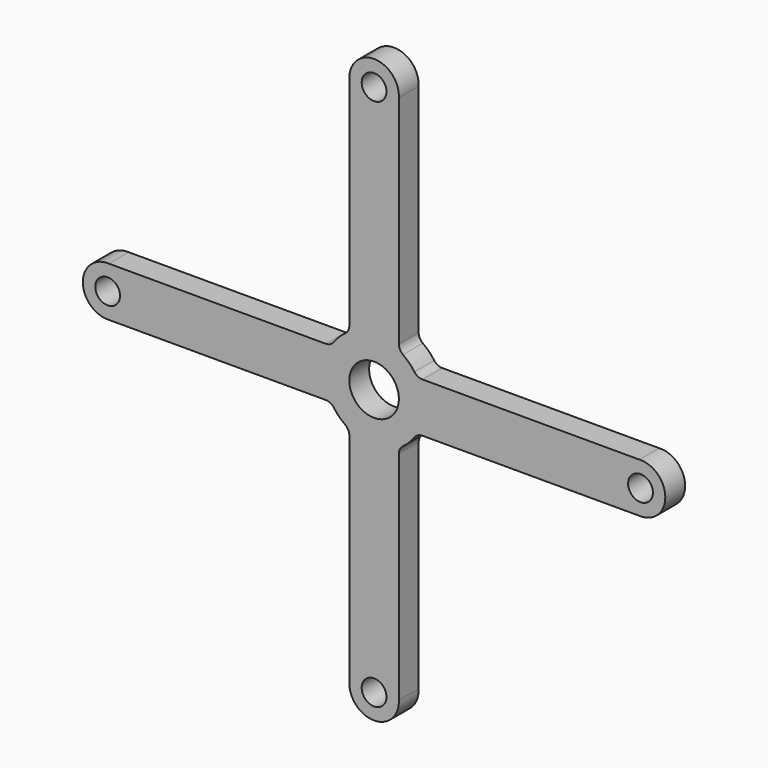
from build123d import *

# Parameters (mm, degrees)
F0_R     = 3.175
F0_R_2   = 6.35
F1_DEPTH = 6.35


with BuildPart() as f1:
    # F0 (on Front) → F1 (new body)
    with BuildSketch(Plane.XZ):
        with BuildLine():
            Line((6.343128, 12.383362), (6.343128, 67.967151))
            ThreePointArc((6.343128, 67.967151), (0, 74.6125), (-6.343128, 67.967151))
            Line((-6.343128, 67.967151), (-6.343128, 12.383362))
            ThreePointArc((-6.343128, 12.383362), (-6.623468, 11.223388), (-7.402606, 10.319468))
            ThreePointArc((-7.402606, 10.319468), (-8.980256, 8.980256), (-10.319468, 7.402606))
            ThreePointArc((-10.319468, 7.402606), (-11.223388, 6.623468), (-12.383362, 6.343128))
            Line((-12.383362, 6.343128), (-67.967151, 6.343128))
            ThreePointArc((-67.967151, 6.343128), (-74.6125, 0), (-67.967151, -6.343128))
            Line((-67.967151, -6.343128), (-12.383362, -6.343128))
            ThreePointArc((-12.383362, -6.343128), (-11.223388, -6.623468), (-10.319468, -7.402606))
            ThreePointArc((-10.319468, -7.402606), (-8.980256, -8.980256), (-7.402606, -10.319468))
            ThreePointArc((-7.402606, -10.319468), (-6.623468, -11.223388), (-6.343128, -12.383362))
            Line((-6.343128, -12.383362), (-6.343128, -67.967151))
            ThreePointArc((-6.343128, -67.967151), (0, -74.6125), (6.343128, -67.967151))
            Line((6.343128, -67.967151), (6.343128, -12.383362))
            ThreePointArc((6.343128, -12.383362), (6.623468, -11.223388), (7.402606, -10.319468))
            ThreePointArc((7.402606, -10.319468), (8.980256, -8.980256), (10.319468, -7.402606))
            ThreePointArc((10.319468, -7.402606), (11.223388, -6.623468), (12.383362, -6.343128))
            Line((12.383362, -6.343128), (67.967151, -6.343128))
            ThreePointArc((67.967151, -6.343128), (74.6125, 0), (67.967151, 6.343128))
            Line((67.967151, 6.343128), (12.383362, 6.343128))
            ThreePointArc((12.383362, 6.343128), (11.223388, 6.623468), (10.319468, 7.402606))
            ThreePointArc((10.319468, 7.402606), (8.980256, 8.980256), (7.402606, 10.319468))
            ThreePointArc((7.402606, 10.319468), (6.623468, 11.223388), (6.343128, 12.383362))
        make_face()
        with Locations((0, -68.2625)):
            Circle(F0_R, mode=Mode.SUBTRACT)
        with Locations((-68.2625, 0)):
            Circle(F0_R, mode=Mode.SUBTRACT)
        Circle(F0_R_2, mode=Mode.SUBTRACT)
        with Locations((68.2625, 0)):
            Circle(F0_R, mode=Mode.SUBTRACT)
        with Locations((0, 68.2625)):
            Circle(F0_R, mode=Mode.SUBTRACT)
    extrude(amount=F1_DEPTH)


solid = f1.part
